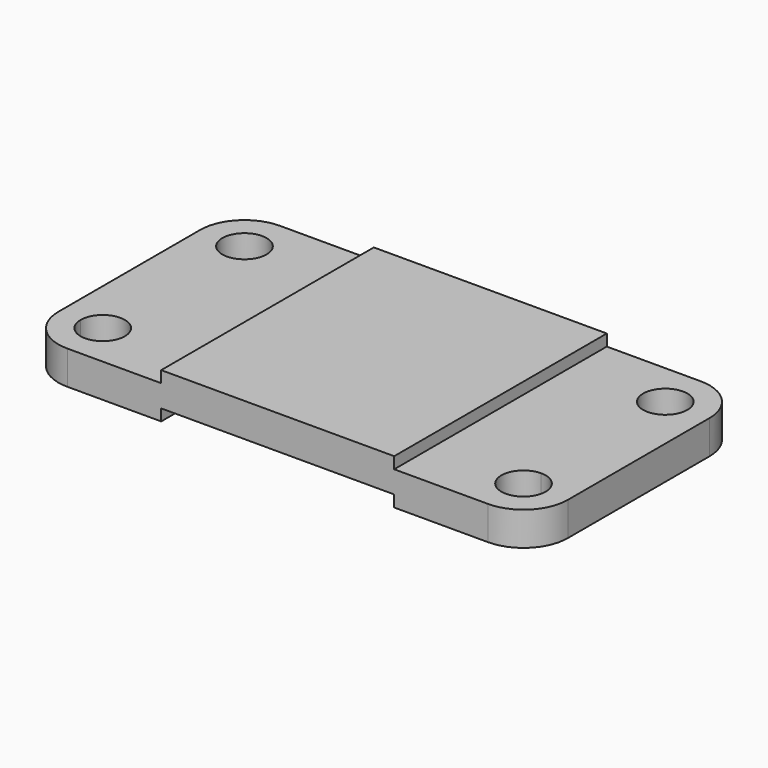
from build123d import *

# Parameters (mm, degrees)
F0_W     = 146.05
F0_H     = 76.2
F1_DEPTH = 12.954
F2_W     = 39.624
F2_H     = 3.302
F3_DEPTH = 76.201
F4_W     = 66.802
F4_H     = 3.302
F5_DEPTH = 76.201
F6_R     = 12.7
F7_R     = 6.35
F9_DEPTH = 9.653


with BuildPart() as f1:
    # F0 (on Top) → F1 (new body)
    with BuildSketch(Plane.XY):
        with Locations((73.025, 38.1)):
            Rectangle(F0_W, F0_H)
    extrude(amount=F1_DEPTH)

    # F2 (on face) → F3 (cut, through all)
    with BuildSketch(Plane.XZ):
        with Locations((126.238, 11.303)):
            Rectangle(F2_W, F2_H)
        with Locations((19.812, 11.303)):
            Rectangle(F2_W, F2_H)
    extrude(amount=-F3_DEPTH, mode=Mode.SUBTRACT)

    # F4 (on face) → F5 (cut, through all)
    with BuildSketch(Plane.XZ):
        with Locations((73.025, 1.651)):
            Rectangle(F4_W, F4_H)
    extrude(amount=-F5_DEPTH, mode=Mode.SUBTRACT)

    # F6
    f6_edges = [f1.edges().sort_by_distance(p)[0] for p in [
        (0, 0, 4.826),
        (0, 76.2, 4.826),
        (146.05, 76.2, 4.826),
        (146.05, 0, 4.826),
    ]]
    fillet(f6_edges, radius=F6_R)

    # F8 (on face) + F7 (on face) → F9 (cut, through all)
    with BuildSketch(Plane.XY.offset(9.652)):
        with BuildLine():
            Line((133.35, 63.5), (139.7, 63.5))
            ThreePointArc((139.7, 63.5), (128.859872, 67.990128), (133.35, 57.15))
            Line((133.35, 57.15), (133.35, 63.5))
        make_face()
        with BuildLine():
            ThreePointArc((133.35, 57.15), (137.840128, 59.009872), (139.7, 63.5))
            Line((139.7, 63.5), (133.35, 63.5))
            Line((133.35, 63.5), (133.35, 57.15))
        make_face()
        with BuildLine():
            ThreePointArc((139.7, 12.7), (137.840128, 17.190128), (133.35, 19.05))
            ThreePointArc((133.35, 19.05), (128.859872, 8.209872), (139.7, 12.7))
        make_face()
    with BuildSketch(Plane.XY.offset(9.652)):
        with Locations((12.7, 63.5)):
            Circle(F7_R)
        with BuildLine():
            Line((12.7, 12.7), (12.7, 6.35))
            ThreePointArc((12.7, 6.35), (17.190128, 8.209872), (19.05, 12.7))
            ThreePointArc((19.05, 12.7), (12.7, 19.05), (6.35, 12.7))
            Line((6.35, 12.7), (12.7, 12.7))
        make_face()
        with BuildLine():
            ThreePointArc((6.35, 12.7), (8.209872, 8.209872), (12.7, 6.35))
            Line((12.7, 6.35), (12.7, 12.7))
            Line((12.7, 12.7), (6.35, 12.7))
        make_face()
    extrude(amount=-F9_DEPTH, mode=Mode.SUBTRACT)


solid = f1.part
